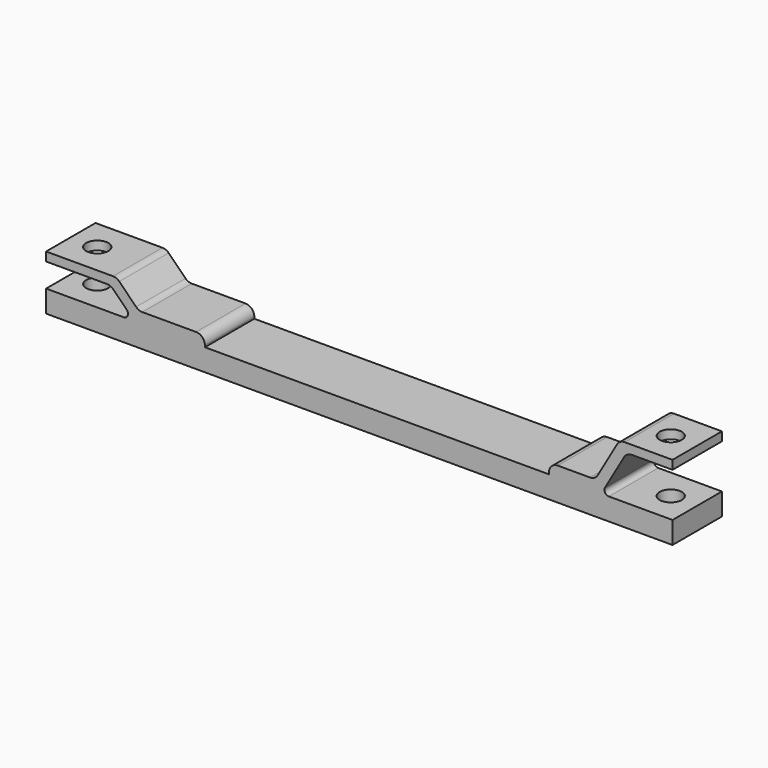
from build123d import *

# Parameters (mm, degrees)
F1_DEPTH = 35
F2_R     = 10
F3_R     = 5
F4_R     = 12.5
F5_DEPTH = 85.001


with BuildPart() as f1:
    # F0 (on Front) → F1 (new body, symmetric)
    with BuildSketch(Plane.XZ):
        Polygon((-355, 0), (355, 0), (355, 25), (274.21539, 25), (215, 25), (-175, 25), (-254.970563, 25), (-355, 25), align=None)
        Polygon((215, 25), (274.21539, 25), (303.082904, 75), (355, 75), (355, 85), (295, 85), (267.287187, 37), (215, 37), align=None)
        Polygon((-281.970563, 52), (-254.970563, 25), (-175, 25), (-175, 37), (-250, 37), (-275, 62), (-355, 62), (-355, 52), align=None)
    extrude(amount=F1_DEPTH, both=True)

    # F2
    f2_edges = [f1.edges().sort_by_distance(p)[0] for p in [
        (-175, 0, 37),
        (-250, 0, 37),
        (-281.970563, 0, 52),
        (-275, 0, 62),
        (267.287187, 0, 37),
        (295, 0, 85),
        (303.082904, 0, 75),
        (215, 0, 37),
    ]]
    fillet(f2_edges, radius=F2_R)

    # F3
    f3_edges = [f1.edges().sort_by_distance(p)[0] for p in [
        (-254.970563, 0, 25),
        (274.21539, 0, 25),
    ]]
    fillet(f3_edges, radius=F3_R)

    # F4 (on Top) → F5 (cut, through all)
    with BuildSketch(Plane.XY):
        with Locations((-325, 0)):
            Circle(F4_R)
        with Locations((325, 0)):
            Circle(F4_R)
    extrude(amount=F5_DEPTH, mode=Mode.SUBTRACT)


solid = f1.part
